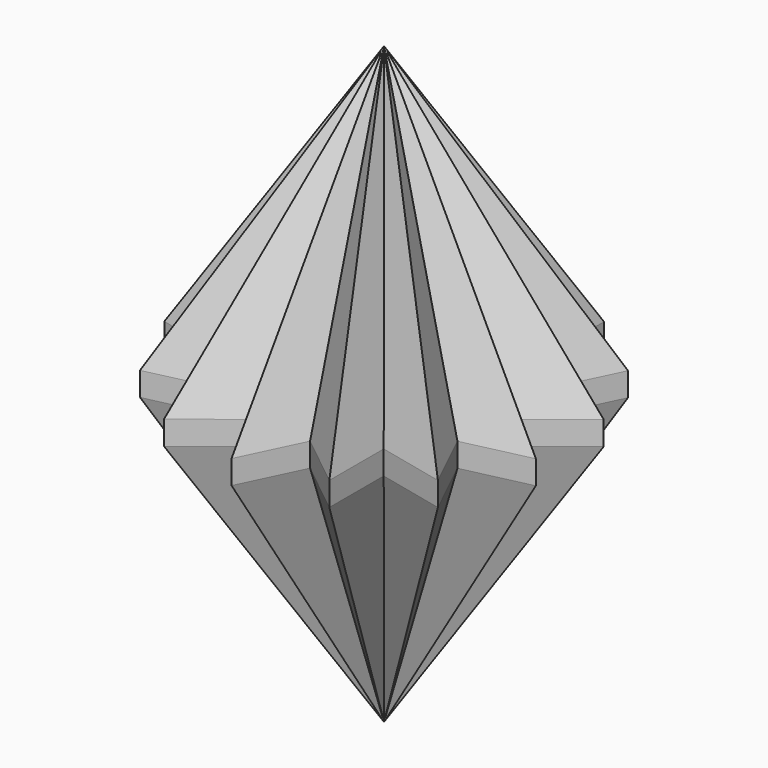
from build123d import *

# Parameters (mm, degrees)
F2_DEPTH = 2


with BuildPart() as f2:
    # F0 (on Top) → F2 (new body)
    with BuildSketch(Plane.XY):
        Polygon((-13.892356, 11.078785), (-17.323485, -3.953972), (-7.709676, -16.009307), (7.709676, -16.009307), (17.323485, -3.953972), (13.892356, 11.078785), (0, 17.768991), (-13.897051, 28.857524), align=None)
        Polygon((17.323485, -3.953972), (7.709676, -16.009307), (25.041621, -19.970026), align=None)
        Polygon((13.892356, 11.078785), (17.323485, -3.953972), (31.226391, 7.12722), align=None)
        Polygon((7.709676, -16.009307), (-7.709676, -16.009307), (0, -32.029435), align=None)
        Polygon((-7.709676, -16.009307), (-17.323485, -3.953972), (-25.041621, -19.970026), align=None)
        Polygon((-31.226391, 7.12722), (-17.323485, -3.953972), (-13.892356, 11.078785), align=None)
        Polygon((13.897051, 28.857524), (0, 17.768991), (13.892356, 11.078785), align=None)
    extrude(amount=F2_DEPTH)

    # F2_face (on face) → F4 section 0
    with BuildSketch(Plane.XY.offset(2), mode=Mode.PRIVATE) as f4_s0:
        Polygon((0, 17.768991), (-13.897051, 28.857524), (-13.892356, 11.078785), (-31.226391, 7.12722), (-17.323485, -3.953972), (-25.041621, -19.970026), (-7.709676, -16.009307), (0, -32.029435), (7.709676, -16.009307), (25.041621, -19.970026), (17.323485, -3.953972), (31.226391, 7.12722), (13.892356, 11.078785), (13.897051, 28.857524), align=None)
    loft([Vertex(0, 0, 50), f4_s0.sketch])

    # F5: F2 across face


with BuildPart() as f2_1:
    add(f2.part)
    add(f2.part.mirror(Plane(origin=(0, 0, 0), x_dir=(1, 0, 0), z_dir=(0, 0, -1))))

    # F6: F2 across plane


with BuildPart() as f2_2:
    add(f2_1.part)
    add(f2_1.part.mirror(Plane.XZ))


solid = f2_2.part
